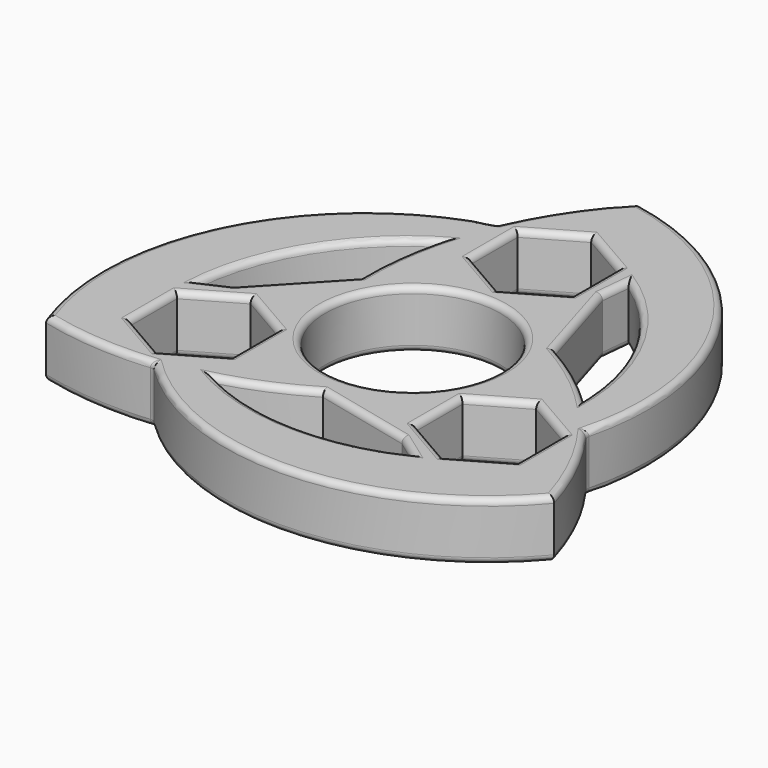
from build123d import *

# Parameters (mm, degrees)
F0_R     = 11.15
F1_DEPTH = 7.366
F2_R     = 0.79375
F3_R     = 0.79375


with BuildPart() as f1:
    # F0 (on Top) → F1 (new body)
    with BuildSketch(Plane.XY):
        with BuildLine():
            ThreePointArc((-0.7135809865, 36.829482764), (-5.3048731729, 31.1547429523), (-8.8358512723, 24.7660944621))
            ThreePointArc((-8.8358512723, 24.7660944621), (-29.7843188749, 7.8412646739), (-31.5384771886, -19.032720644))
            ThreePointArc((-31.5384771886, -19.032720644), (-24.3283622587, -20.1715264077), (-17.0301413205, -20.0351188969))
            ThreePointArc((-17.0301413205, -20.0351188969), (8.101425032, -29.714609117), (32.2520581751, -17.79676212))
            ThreePointArc((32.2520581751, -17.79676212), (29.6332354315, -10.9832165446), (25.8659925929, -4.7309755651))
            ThreePointArc((25.8659925929, -4.7309755651), (21.6828938429, 21.8733444431), (-0.7135809865, 36.829482764))
        make_face()
        Polygon((-11.7927727968, -14.2142324516), (-18.2062727968, -17.9170684031), (-24.6197727968, -14.2142324516), (-24.6197727968, -6.8085605487), (-18.2062727968, -3.1057245973), (-11.7927727968, -6.8085605487), align=None, mode=Mode.SUBTRACT)
        with BuildLine():
            ThreePointArc((15.3523807302, -19.370312156), (2.4754402133, -22.0682818518), (-10.2523799505, -18.737031121))
            ThreePointArc((-10.2523799505, -18.737031121), (-4.9778498621, -16.8757182972), (0, -14.325))
            Line((0, -14.325), (12.3765134043, -17.2311001595))
            Line((12.3765134043, -17.2311001595), (15.3523807302, -19.370312156))
        make_face(mode=Mode.SUBTRACT)
        Circle(F0_R, mode=Mode.SUBTRACT)
        Polygon((18.2062727968, -3.1057245973), (24.6197727968, -6.8085605487), (24.6197727968, -14.2142324516), (18.2062727968, -17.9170684031), (11.7927727968, -14.2142324516), (11.7927727968, -6.8085605487), align=None, mode=Mode.SUBTRACT)
        with BuildLine():
            ThreePointArc((-24.4513727714, -3.6103956429), (-20.3494128082, 8.8903468156), (-11.100554967, 18.2473370469))
            ThreePointArc((-11.100554967, 18.2473370469), (-12.1258758214, 12.7488035854), (-12.4058139092, 7.1625))
            Line((-12.4058139092, 7.1625), (-21.1108271755, -2.1028249387))
            Line((-21.1108271755, -2.1028249387), (-24.4513727714, -3.6103956429))
        make_face(mode=Mode.SUBTRACT)
        with BuildLine():
            ThreePointArc((9.0989920412, 22.9807077989), (17.8739725949, 13.1779350362), (21.3529349175, 0.4896940741))
            ThreePointArc((21.3529349175, 0.4896940741), (17.1037256835, 4.1269147118), (12.4058139092, 7.1625))
            Line((12.4058139092, 7.1625), (8.7343137711, 19.3339250982))
            Line((8.7343137711, 19.3339250982), (9.0989920412, 22.9807077989))
        make_face(mode=Mode.SUBTRACT)
        Polygon((-6.4135, 24.7256289518), (0, 28.4284649033), (6.4135, 24.7256289518), (6.4135, 17.3199570489), (0, 13.6171210975), (-6.4135, 17.3199570489), align=None, mode=Mode.SUBTRACT)
    extrude(amount=F1_DEPTH)

    # F2 (call 1 of 16: OpenCascade refuses the feature's edges together)
    f2_edges = [f1.edges().sort_by_distance(p)[0] for p in [
        (21.682894, 21.873344, 7.366),
        (-5.304873, 31.154743, 7.366),
        (-29.784319, 7.841265, 7.366),
        (-24.328362, -20.171526, 7.366),
        (8.101425, -29.714609, 7.366),
        (29.633235, -10.983217, 7.366),
    ]]
    fillet(f2_edges, radius=F2_R)

    # F2#2 (call 2 of 16)
    f2_2_edges = [f1.edges().sort_by_distance(p)[0] for p in [
        (-14.999523, -4.957143, 7.366),
        (-11.792773, -10.511397, 7.366),
        (-14.999523, -16.06565, 7.366),
        (-21.413023, -16.06565, 7.366),
        (-24.619773, -10.511397, 7.366),
        (-21.413023, -4.957143, 7.366),
    ]]
    fillet(f2_2_edges, radius=F2_R)

    # F2#3 (call 3 of 16)
    f2_3_edges = [f1.edges().sort_by_distance(p)[0] for p in [
        (13.864447, -18.300706, 7.366),
        (2.47544, -22.068282, 7.366),
        (-4.97785, -16.875718, 7.366),
        (6.188257, -15.77805, 7.366),
    ]]
    fillet(f2_3_edges, radius=F2_R)

    # F2#4 (call 4 of 16)
    f2_4_edges = [f1.edges().sort_by_distance(p)[0] for p in [
        (-11.15, 0, 7.366),
    ]]
    fillet(f2_4_edges, radius=F2_R)

    # F2#5 (call 5 of 16)
    f2_5_edges = [f1.edges().sort_by_distance(p)[0] for p in [
        (14.999523, -4.957143, 7.366),
        (21.413023, -4.957143, 7.366),
        (24.619773, -10.511397, 7.366),
        (21.413023, -16.06565, 7.366),
        (14.999523, -16.06565, 7.366),
        (11.792773, -10.511397, 7.366),
    ]]
    fillet(f2_5_edges, radius=F2_R)

    # F2#6 (call 6 of 16)
    f2_6_edges = [f1.edges().sort_by_distance(p)[0] for p in [
        (-22.7811, -2.85661, 7.366),
        (-20.349413, 8.890347, 7.366),
        (-12.125876, 12.748804, 7.366),
        (-16.758321, 2.529838, 7.366),
    ]]
    fillet(f2_6_edges, radius=F2_R)

    # F2#7 (call 7 of 16)
    f2_7_edges = [f1.edges().sort_by_distance(p)[0] for p in [
        (10.570064, 13.248213, 7.366),
        (8.916653, 21.157316, 7.366),
        (17.873973, 13.177935, 7.366),
        (17.103726, 4.126915, 7.366),
    ]]
    fillet(f2_7_edges, radius=F2_R)

    # F2#8 (call 8 of 16)
    f2_8_edges = [f1.edges().sort_by_distance(p)[0] for p in [
        (-3.20675, 15.468539, 7.366),
        (-6.4135, 21.022793, 7.366),
        (-3.20675, 26.577047, 7.366),
        (3.20675, 26.577047, 7.366),
        (6.4135, 21.022793, 7.366),
        (3.20675, 15.468539, 7.366),
    ]]
    fillet(f2_8_edges, radius=F2_R)

    # F2#9 (call 9 of 16)
    f2_9_edges = [f1.edges().sort_by_distance(p)[0] for p in [
        (21.682894, 21.873344, 0),
        (-5.304873, 31.154743, 0),
        (-29.784319, 7.841265, 0),
        (-24.328362, -20.171526, 0),
        (8.101425, -29.714609, 0),
        (29.633235, -10.983217, 0),
    ]]
    fillet(f2_9_edges, radius=F2_R)

    # F2#10 (call 10 of 16)
    f2_10_edges = [f1.edges().sort_by_distance(p)[0] for p in [
        (-14.999523, -4.957143, 0),
        (-11.792773, -10.511397, 0),
        (-14.999523, -16.06565, 0),
        (-21.413023, -16.06565, 0),
        (-24.619773, -10.511397, 0),
        (-21.413023, -4.957143, 0),
    ]]
    fillet(f2_10_edges, radius=F2_R)

    # F2#11 (call 11 of 16)
    f2_11_edges = [f1.edges().sort_by_distance(p)[0] for p in [
        (13.864447, -18.300706, 0),
        (2.47544, -22.068282, 0),
        (-4.97785, -16.875718, 0),
        (6.188257, -15.77805, 0),
    ]]
    fillet(f2_11_edges, radius=F2_R)

    # F2#12 (call 12 of 16)
    f2_12_edges = [f1.edges().sort_by_distance(p)[0] for p in [
        (-11.15, 0, 0),
    ]]
    fillet(f2_12_edges, radius=F2_R)

    # F2#13 (call 13 of 16)
    f2_13_edges = [f1.edges().sort_by_distance(p)[0] for p in [
        (14.999523, -4.957143, 0),
        (21.413023, -4.957143, 0),
        (24.619773, -10.511397, 0),
        (21.413023, -16.06565, 0),
        (14.999523, -16.06565, 0),
        (11.792773, -10.511397, 0),
    ]]
    fillet(f2_13_edges, radius=F2_R)

    # F2#14 (call 14 of 16)
    f2_14_edges = [f1.edges().sort_by_distance(p)[0] for p in [
        (-22.7811, -2.85661, 0),
        (-20.349413, 8.890347, 0),
        (-12.125876, 12.748804, 0),
        (-16.758321, 2.529838, 0),
    ]]
    fillet(f2_14_edges, radius=F2_R)

    # F2#15 (call 15 of 16)
    f2_15_edges = [f1.edges().sort_by_distance(p)[0] for p in [
        (10.570064, 13.248213, 0),
        (8.916653, 21.157316, 0),
        (17.873973, 13.177935, 0),
        (17.103726, 4.126915, 0),
    ]]
    fillet(f2_15_edges, radius=F2_R)

    # F2#16 (call 16 of 16)
    f2_16_edges = [f1.edges().sort_by_distance(p)[0] for p in [
        (-3.20675, 15.468539, 0),
        (-6.4135, 21.022793, 0),
        (-3.20675, 26.577047, 0),
        (3.20675, 26.577047, 0),
        (6.4135, 21.022793, 0),
        (3.20675, 15.468539, 0),
    ]]
    fillet(f2_16_edges, radius=F2_R)

    # F3
    f3_edges = [f1.edges().sort_by_distance(p)[0] for p in [
        (-17.030141, -20.035119, 3.683),
        (-8.835851, 24.766094, 3.683),
        (25.865993, -4.730976, 3.683),
    ]]
    fillet(f3_edges, radius=F3_R)


solid = f1.part
